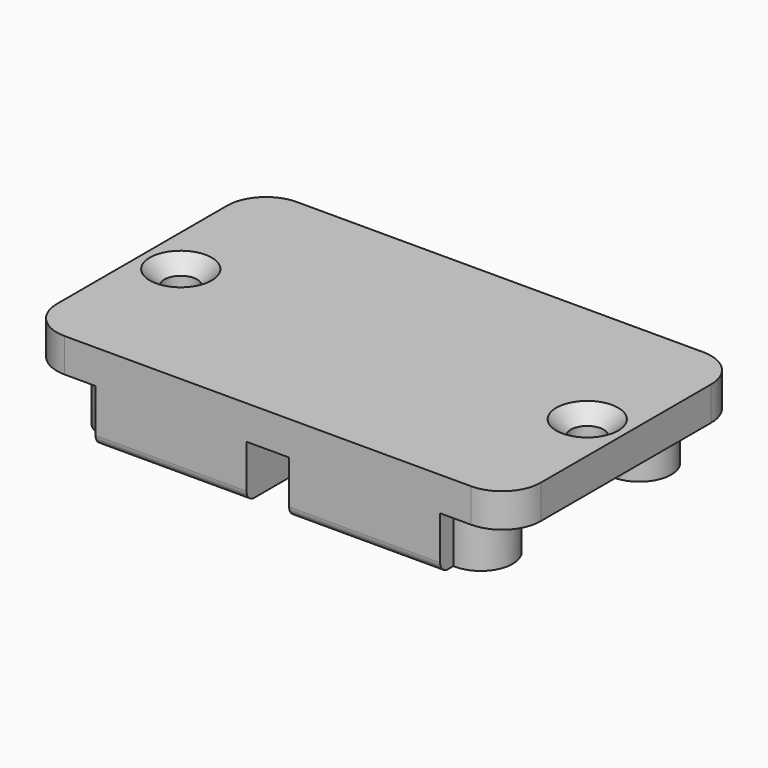
from build123d import *

# Parameters (mm, degrees)
SKETCH_W        = 50
SKETCH_H        = 30
SKETCH_R        = 1.7
PAD_DEPTH       = 9
CHAMFER_SIZE    = 1.5
CHAMFER001_SIZE = 1.5
SKETCH001_R     = 2.6
SKETCH001_W     = 4.4
SKETCH001_H     = 32
SKETCH001_W_2   = 8.2
POCKET_DEPTH    = 5.5
FILLET_R        = 4
FILLET001_R     = 4
FILLET002_R     = 4
FILLET003_R     = 4
FILLET004_R     = 1
FILLET005_R     = 1
FILLET006_R     = 1
FILLET007_R     = 1
SKETCH004_R     = 3.3
PAD001_DEPTH    = 5.5


with BuildPart() as part:
    # Sketch → Pad (new body)
    with BuildSketch(Plane.XY):
        Rectangle(SKETCH_W, SKETCH_H)
        with Locations((-21, 0)):
            Circle(SKETCH_R, mode=Mode.SUBTRACT)
        with Locations((21, 0)):
            Circle(SKETCH_R, mode=Mode.SUBTRACT)
    extrude(amount=PAD_DEPTH)

    # Chamfer
    chamfer_edges = [part.edges().sort_by_distance(p)[0] for p in [
        (-22.7, 0, 9),
    ]]
    chamfer(chamfer_edges, length=CHAMFER_SIZE)

    # Chamfer001
    chamfer001_edges = [part.edges().sort_by_distance(p)[0] for p in [
        (19.3, 0, 9),
    ]]
    chamfer(chamfer001_edges, length=CHAMFER001_SIZE)

    # Sketch001 → Pocket (cut)
    with BuildSketch(Plane(origin=(0, 0, 0), x_dir=(1, 0, 0), z_dir=(0, 0, -1))):
        with Locations((-10, 0)):
            Circle(SKETCH001_R)
        with Locations((10, 0)):
            Circle(SKETCH001_R)
        Rectangle(SKETCH001_W, SKETCH001_H)
        with Locations((-21.9, 0)):
            Rectangle(SKETCH001_W_2, SKETCH001_H)
        with Locations((21.9, 0)):
            Rectangle(SKETCH001_W_2, SKETCH001_H)
    extrude(amount=-POCKET_DEPTH, mode=Mode.SUBTRACT)

    # Fillet
    fillet_edges = [part.edges().sort_by_distance(p)[0] for p in [
        (-25, -15, 7.25),
    ]]
    fillet(fillet_edges, radius=FILLET_R)

    # Fillet001
    fillet001_edges = [part.edges().sort_by_distance(p)[0] for p in [
        (-25, 15, 7.25),
    ]]
    fillet(fillet001_edges, radius=FILLET001_R)

    # Fillet002
    fillet002_edges = [part.edges().sort_by_distance(p)[0] for p in [
        (25, 15, 7.25),
    ]]
    fillet(fillet002_edges, radius=FILLET002_R)

    # Fillet003
    fillet003_edges = [part.edges().sort_by_distance(p)[0] for p in [
        (25, -15, 7.25),
    ]]
    fillet(fillet003_edges, radius=FILLET003_R)

    # Fillet004
    fillet004_edges = [part.edges().sort_by_distance(p)[0] for p in [
        (-10, 15, 0),
    ]]
    fillet(fillet004_edges, radius=FILLET004_R)

    # Fillet005
    fillet005_edges = [part.edges().sort_by_distance(p)[0] for p in [
        (10, 15, 0),
    ]]
    fillet(fillet005_edges, radius=FILLET005_R)

    # Fillet006
    fillet006_edges = [part.edges().sort_by_distance(p)[0] for p in [
        (-10, -15, 0),
    ]]
    fillet(fillet006_edges, radius=FILLET006_R)

    # Fillet007
    fillet007_edges = [part.edges().sort_by_distance(p)[0] for p in [
        (10, -15, 0),
    ]]
    fillet(fillet007_edges, radius=FILLET007_R)

    # Sketch004 → Pad001 (new body)
    with BuildSketch(Plane(origin=(0, 0, 5.5), x_dir=(1, 0, 0), z_dir=(0, 0, -1))):
        with Locations((-18, 10)):
            Circle(SKETCH004_R)
        with Locations((18, 10)):
            Circle(SKETCH004_R)
        with Locations((-18, -10)):
            Circle(SKETCH004_R)
        with Locations((18.251301, -10.165039)):
            Circle(SKETCH004_R)
    extrude(amount=PAD001_DEPTH)


solid = part.part
